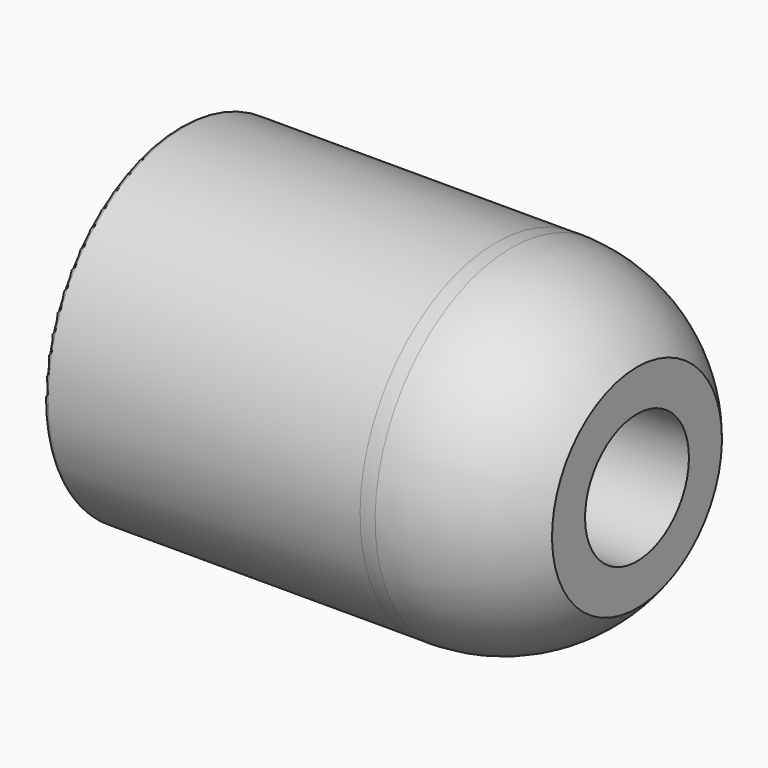
from build123d import *

# Parameters (mm, degrees)
F2_R     = 1.7526
F3_DEPTH = 5.08
F4_R     = 0.3048


with BuildPart() as f1:
    # F0 (on Front) → F1 (revolve)
    with BuildSketch(Plane.XZ):
        Polygon((0, 12.6238), (0, 0), (13.843, 0), (13.843, 3.175), (24.003, 3.175), (24.003, 4.8133), (24.5618, 4.8133), (24.5618, 12.6238), (23.4442, 12.6238), align=None)
        with BuildLine():
            ThreePointArc((24.5618, 12.6238), (24.003, 12.636162), (23.4442, 12.6238))
            Line((23.4442, 12.6238), (24.5618, 12.6238))
        make_face()
        with BuildLine():
            ThreePointArc((33.8836, 7.876949), (29.73697, 11.260292), (24.5618, 12.6238))
            Line((24.5618, 12.6238), (24.5618, 4.8133))
            Line((24.5618, 4.8133), (33.8836, 4.8133))
            Line((33.8836, 4.8133), (33.8836, 7.876949))
        make_face()
    revolve(axis=Axis((6.9215, 0, 0), (-1, 0, 0)))

    # F2 (on face) → F3 (cut)
    with BuildSketch(Plane(origin=(0, 0, 0), x_dir=(0, -1, 0), z_dir=(-1, 0, 0))):
        with Locations((0, 6.35)):
            Circle(F2_R)
        with Locations((-6.35, 0)):
            Circle(F2_R)
        with Locations((0, -6.35)):
            Circle(F2_R)
        with Locations((6.35, 0)):
            Circle(F2_R)
    extrude(amount=-F3_DEPTH, mode=Mode.SUBTRACT)

    # F4
    f4_edges = [f1.edges().sort_by_distance(p)[0] for p in [
        (0, 0, -12.6238),
    ]]
    fillet(f4_edges, radius=F4_R)


solid = f1.part
